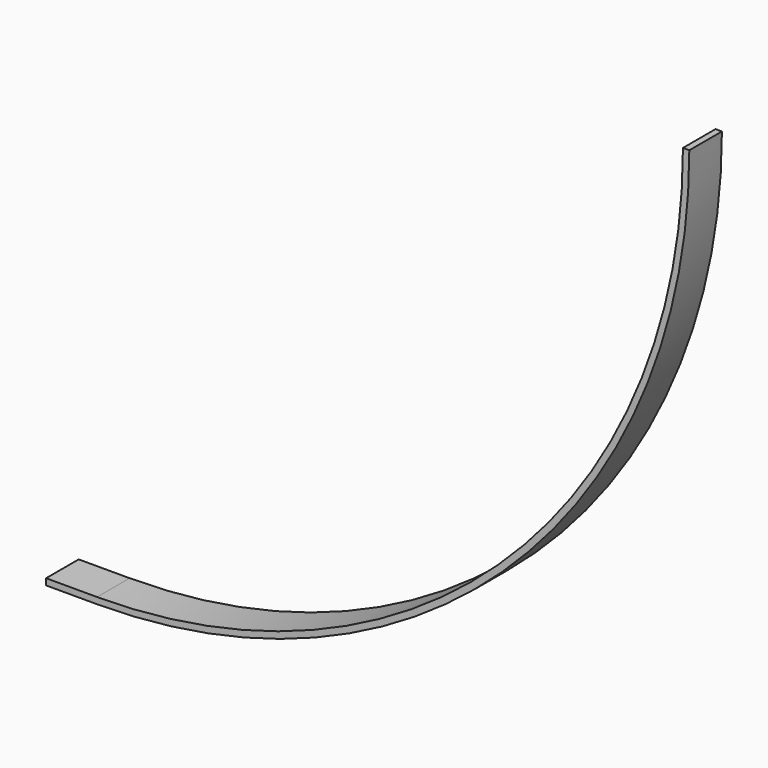
from build123d import *

# Parameters (mm, degrees)
F1_DEPTH = 20.32
F2_W     = 20.32
F2_H     = 3.175
F3_DEPTH = 25.4


with BuildPart() as f1:
    # F0 (on Front) → F1 (new body)
    with BuildSketch(Plane.XZ):
        with BuildLine():
            ThreePointArc((292.1, 0), (206.545891, -206.545891), (0, -292.1))
            Line((0, -292.1), (0, -295.275))
            ThreePointArc((0, -295.275), (208.790955, -208.790955), (295.275, 0))
            Line((295.275, 0), (292.1, 0))
        make_face()
    extrude(amount=F1_DEPTH)

    # F2 (on face) → F3 (join)
    with BuildSketch(Plane(origin=(0, 0, 0), x_dir=(0, -1, 0), z_dir=(-1, 0, 0))):
        with Locations((10.16, -293.6875)):
            Rectangle(F2_W, F2_H)
    extrude(amount=F3_DEPTH)


solid = f1.part
